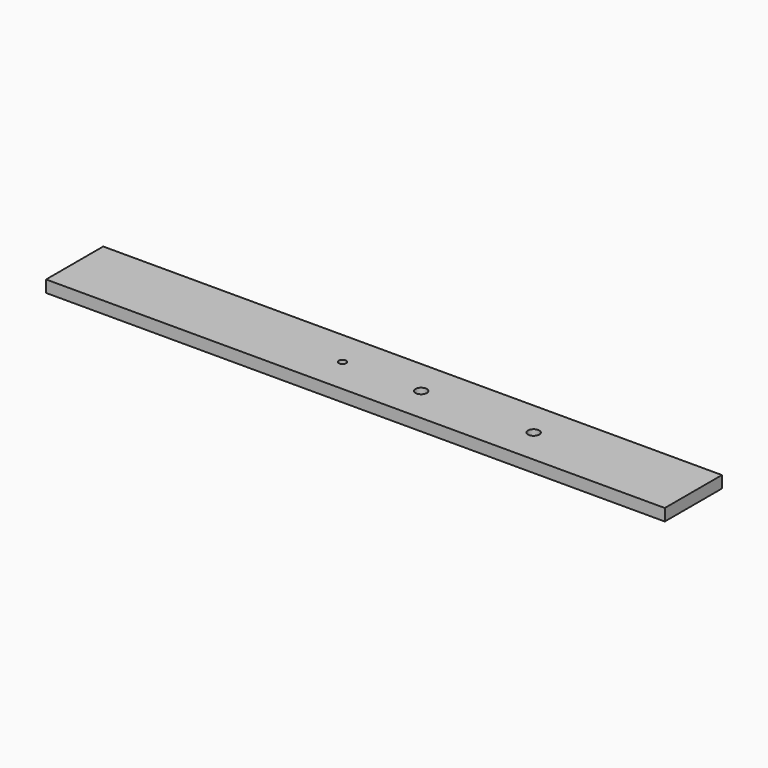
from build123d import *

# Parameters (mm, degrees)
F0_W     = 165.1
F0_H     = 19.05
F1_DEPTH = 3.175
F2_R     = 1.4986
F3_DEPTH = 25.4
F2_R_2   = 0.9779
F4_DEPTH = 25.4
F5_DEPTH = 25.4


with BuildPart() as f1:
    # F0 (on Top) → F1 (new body)
    with BuildSketch(Plane.XY):
        with Locations((-49.068541, -18.8957)):
            Rectangle(F0_W, F0_H)
    extrude(amount=F1_DEPTH)

    # F2 (on face) → F3 (cut)
    with BuildSketch(Plane(origin=(0, 0, 0), x_dir=(1, 0, 0), z_dir=(0, 0, -1))):
        with Locations((-39.137141, 18.8957)):
            Circle(F2_R)
    extrude(amount=-F3_DEPTH, mode=Mode.SUBTRACT)

    # F2 (on face) → F4 (cut)
    with BuildSketch(Plane(origin=(0, 0, 0), x_dir=(1, 0, 0), z_dir=(0, 0, -1))):
        with Locations((-60.137141, 18.8957)):
            Circle(F2_R_2)
    extrude(amount=-F4_DEPTH, mode=Mode.SUBTRACT)

    # F2 (on face) → F5 (cut)
    with BuildSketch(Plane(origin=(0, 0, 0), x_dir=(1, 0, 0), z_dir=(0, 0, -1))):
        with Locations((-9.143541, 18.8957)):
            Circle(F2_R)
    extrude(amount=-F5_DEPTH, mode=Mode.SUBTRACT)


solid = f1.part
